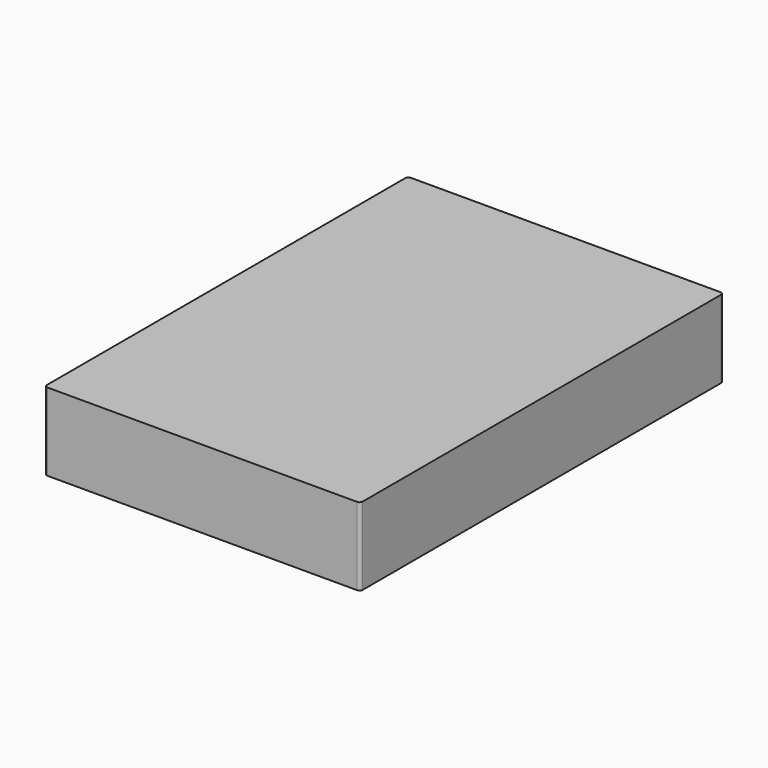
from build123d import *

# Parameters (mm, degrees)
F0_W     = 101.5
F0_H     = 146
F1_DEPTH = 25
F2_W     = 24
F2_H     = 9
F3_DEPTH = 9
F4_R     = 1
F5_W     = 43.5
F5_H     = 7
F6_DEPTH = 10
F7_W     = 26.9
F7_H     = 4.6
F7_W_2   = 13
F8_DEPTH = 10


with BuildPart() as f1:
    # F0 (on Top) → F1 (new body)
    with BuildSketch(Plane.XY):
        Rectangle(F0_W, F0_H)
    extrude(amount=F1_DEPTH)

    # F2 (on face) → F3 (cut)
    with BuildSketch(Plane(origin=(0, 73, 0), x_dir=(-1, 0, 0), z_dir=(0, 1, 0))):
        with Locations((38.75, 4.5)):
            Rectangle(F2_W, F2_H)
    extrude(amount=-F3_DEPTH, mode=Mode.SUBTRACT)

    # F4
    f4_edges = [f1.edges().sort_by_distance(p)[0] for p in [
        (50.75, 73, 12.5),
        (-50.75, 73, 17),
        (-50.75, -73, 12.5),
        (50.75, -73, 12.5),
    ]]
    fillet(f4_edges, radius=F4_R)

    # F5 (on face) → F6 (cut)
    with BuildSketch(Plane(origin=(0, 73, 0), x_dir=(-1, 0, 0), z_dir=(0, 1, 0))):
        with Locations((-20.5, 3.5)):
            Rectangle(F5_W, F5_H)
    extrude(amount=-F6_DEPTH, mode=Mode.SUBTRACT)

    # F7 (on face) → F8 (join)
    with BuildSketch(Plane(origin=(0, 63, 0), x_dir=(-1, 0, 0), z_dir=(0, 1, 0))):
        with Locations((-27.6, 3.5)):
            Rectangle(F7_W, F7_H)
        with Locations((-6.45, 3.5)):
            Rectangle(F7_W_2, F7_H)
    extrude(amount=F8_DEPTH)


solid = f1.part
